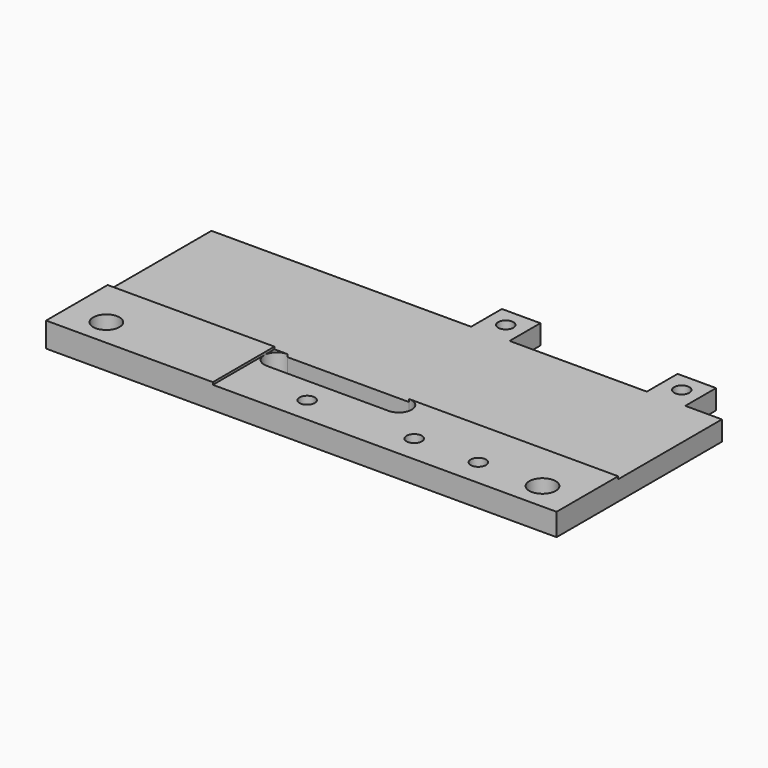
from build123d import *

# Parameters (mm, degrees)
F1_DEPTH  = 6.1214
F2_W      = 126.3396
F2_H      = 43.2846567154
F3_DEPTH  = 1.2446
F4_W      = 85.1099437237
F4_H      = 19.05
F5_DEPTH  = 0.5842
F7_DEPTH  = 5.5372
F8_R      = 1.8923
F9_DEPTH  = 4.8768
F10_R     = 1.8923
F11_DEPTH = 5.5372
F12_R     = 3.2639
F13_DEPTH = 6.1214
F14_R     = 1.8923
F15_DEPTH = 5.5372
F16_R     = 3.2639
F17_DEPTH = 5.5372


with BuildPart() as f1:
    # F0 (on Top) → F1 (new body)
    with BuildSketch(Plane.XY):
        Polygon((0, 51.1556), (0, 0), (126.3396, 0), (126.3396, 51.1556), (117.2718, 51.1556), (117.2718, 60.6806), (107.7468, 60.6806), (107.7468, 51.1556), (73.787, 51.1556), (73.787, 60.6806), (64.262, 60.6806), (64.262, 51.1556), align=None)
    extrude(amount=F1_DEPTH)

    # F2 (on face) → F3 (cut)
    with BuildSketch(Plane.XY.offset(6.1214)):
        with Locations((63.1698, 40.6923283577)):
            Rectangle(F2_W, F2_H)
    extrude(amount=-F3_DEPTH, mode=Mode.SUBTRACT)

    # F4 (on face) → F5 (cut)
    with BuildSketch(Plane.XY.offset(6.1214)):
        with Locations((83.8299718618, 9.525)):
            Rectangle(F4_W, F4_H)
    extrude(amount=-F5_DEPTH, mode=Mode.SUBTRACT)

    # F6 (on face) → F7 (cut, through all)
    with BuildSketch(Plane.XY.offset(5.5372)):
        with BuildLine():
            Line((74.6125, 19.05), (44.45, 19.05))
            ThreePointArc((44.45, 19.05), (41.275, 15.875), (44.45, 12.7))
            Line((44.45, 12.7), (74.6125, 12.7))
            ThreePointArc((74.6125, 12.7), (77.7875, 15.875), (74.6125, 19.05))
        make_face()
    extrude(amount=-F7_DEPTH, mode=Mode.SUBTRACT)

    # F8 (on face) → F9 (cut, through all)
    with BuildSketch(Plane.XY.offset(4.8768)):
        with Locations((69.0245, 55.9181)):
            Circle(F8_R)
        with Locations((112.5855, 55.9181)):
            Circle(F8_R)
    extrude(amount=-F9_DEPTH, mode=Mode.SUBTRACT)

    # F10 (on face) → F11 (cut, through all)
    with BuildSketch(Plane.XY.offset(5.5372)):
        with Locations((59.53125, 6.35)):
            Circle(F10_R)
    extrude(amount=-F11_DEPTH, mode=Mode.SUBTRACT)

    # F12 (on face) → F13 (cut, through all)
    with BuildSketch(Plane.XY.offset(6.1214)):
        with Locations((9.525, 6.731)):
            Circle(F12_R)
    extrude(amount=-F13_DEPTH, mode=Mode.SUBTRACT)

    # F14 (on face) → F15 (cut, through all)
    with BuildSketch(Plane.XY.offset(5.5372)):
        with Locations((85.725, 6.731)):
            Circle(F14_R)
        with Locations((101.6, 6.731)):
            Circle(F14_R)
    extrude(amount=-F15_DEPTH, mode=Mode.SUBTRACT)

    # F16 (on face) → F17 (cut, through all)
    with BuildSketch(Plane.XY.offset(5.5372)):
        with Locations((117.475, 6.731)):
            Circle(F16_R)
    extrude(amount=-F17_DEPTH, mode=Mode.SUBTRACT)


solid = f1.part
